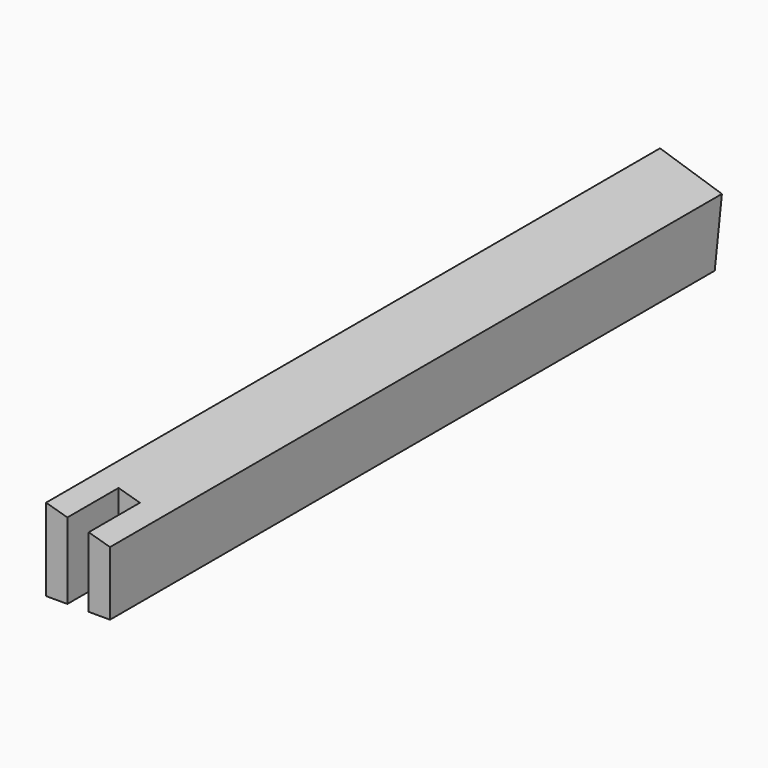
from build123d import *

# Parameters (mm, degrees)
F1_DEPTH = 360
F3_DEPTH = 30
F5_DEPTH = 30


with BuildPart() as f1:
    # F0 (on Front) → F1 (new body)
    with BuildSketch(Plane.XZ):
        Polygon((-30, 0), (0, 0), (0, 30), (-30, 38.602362), align=None)
    extrude(amount=F1_DEPTH)

    # F2 (on face) → F3 (cut)
    with BuildSketch(Plane(origin=(-30, 0, 0), x_dir=(0, -1, 0), z_dir=(-1, 0, 0))):
        Polygon((5.425208, 0), (0, 38.602362), (0, 0), align=None)
    extrude(amount=-F3_DEPTH, mode=Mode.SUBTRACT)

    # F4 (on face) → F5 (cut)
    with BuildSketch(Plane.XZ.offset(360)):
        Polygon((-20, 0), (-15, 0), (-10, 0), (-10, 32.867454), (-15, 34.301181), (-20, 35.734908), align=None)
    extrude(amount=-F5_DEPTH, mode=Mode.SUBTRACT)


solid = f1.part
